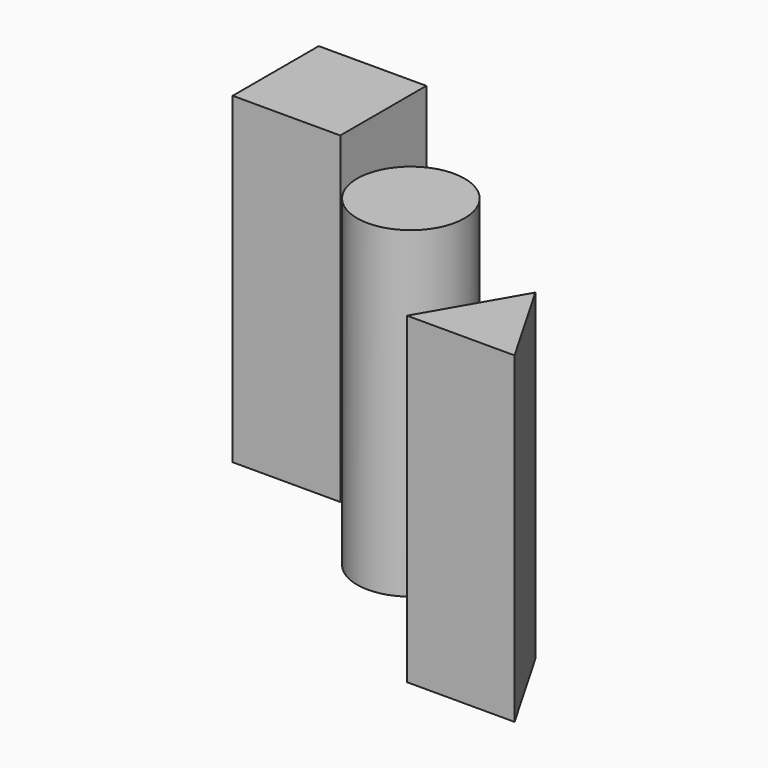
from build123d import *

# Parameters (mm, degrees)
F0_R     = 12.7
F2_DEPTH = 76.2
F1_W     = 25.4
F1_H     = 25.4
F4_DEPTH = 76.2
F5_DEPTH = 76.2


with BuildPart() as f2:
    # F0 (on Top) → F2 (new body)
    with BuildSketch(Plane.XY):
        Circle(F0_R)
    extrude(amount=F2_DEPTH)


with BuildPart() as f4:
    # F1 (on Top) → F4 (new body)
    with BuildSketch(Plane.XY):
        with Locations((-38.564378, 24.189506)):
            Rectangle(F1_W, F1_H)
    extrude(amount=F4_DEPTH)


with BuildPart() as f5:
    # F3 (on face) → F5 (new body)
    with BuildSketch(Plane.XY):
        Polygon((54.10165, -37.012935), (41.40165, -15.015889), (28.70165, -37.012935), align=None)
    extrude(amount=F5_DEPTH)


solid = Compound([f2.part, f4.part, f5.part])
